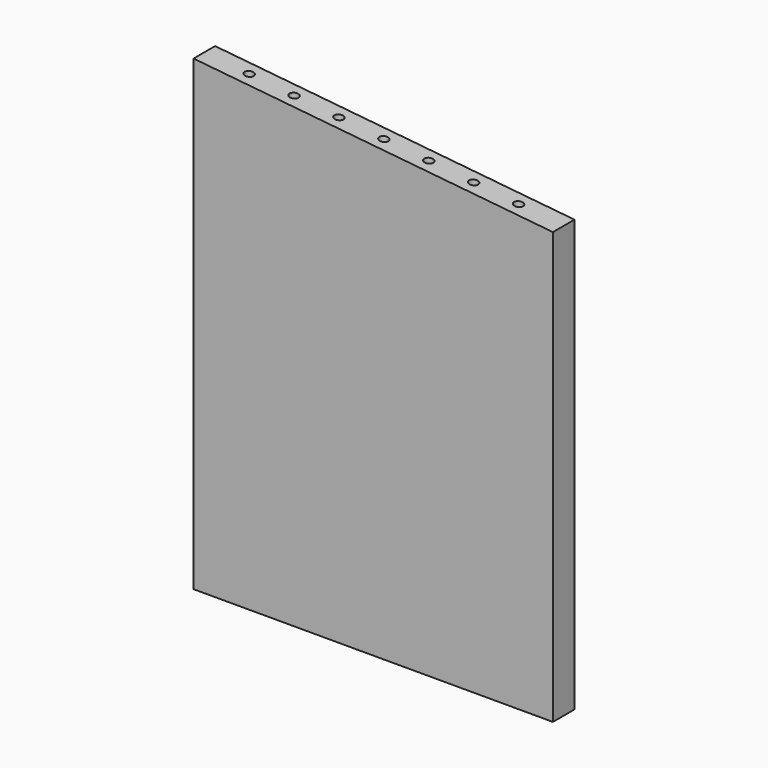
from build123d import *

# Parameters (mm, degrees)
F1_DEPTH = 6
F2_R     = 1
F3_DEPTH = 110


with BuildPart() as f1:
    # F0 (on Front) → F1 (new body)
    with BuildSketch(Plane.XZ):
        Polygon((-31.122757, 104), (-31.122757, 0), (48.877243, 0), (48.877243, 96), align=None)
    extrude(amount=F1_DEPTH)

    # F2 (on Top) → F3 (cut)
    with BuildSketch(Plane.XY):
        with Locations((-21.149542, -3)):
            Circle(F2_R)
        with Locations((-11.149542, -3)):
            Circle(F2_R)
        with Locations((-1.149542, -3)):
            Circle(F2_R)
        with Locations((8.850458, -3)):
            Circle(F2_R)
        with Locations((18.850458, -3)):
            Circle(F2_R)
        with Locations((28.850458, -3)):
            Circle(F2_R)
        with Locations((38.850458, -3)):
            Circle(F2_R)
    extrude(amount=F3_DEPTH, mode=Mode.SUBTRACT)


solid = f1.part
